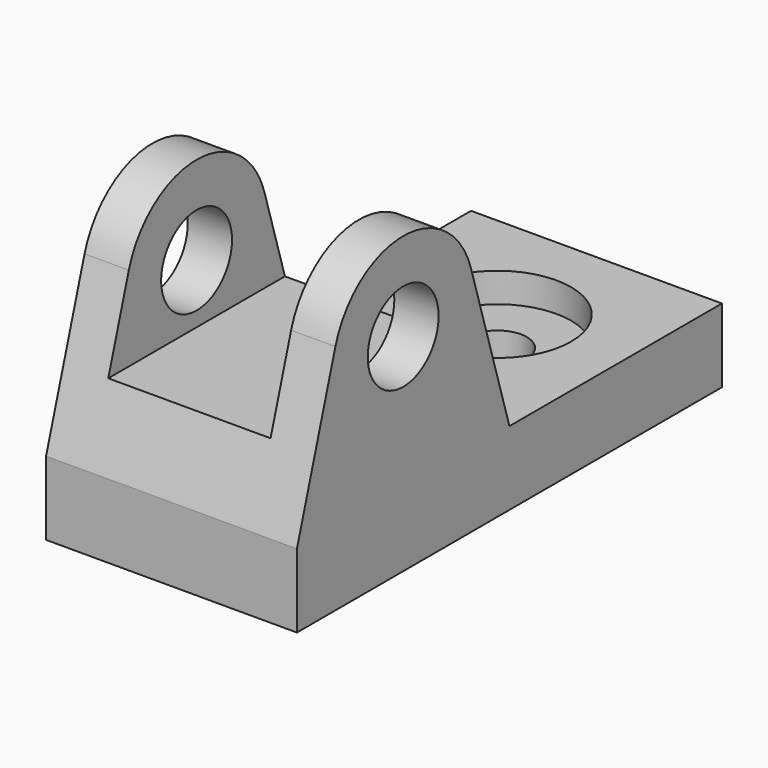
from build123d import *

# Parameters (mm, degrees)
F0_W          = 85
F0_H          = 180
F1_DEPTH      = 25
F2_R          = 15
F3_DEPTH      = 42.5
F3_DEPTH_BACK = 42.5
F4_W          = 55
F4_H          = 65
F5_DEPTH      = 180.001
F6_R          = 25
F7_DEPTH      = 10
F8_R          = 10
F9_DEPTH      = 15.001


with BuildPart() as f1:
    # F0 (on Top) → F1 (new body)
    with BuildSketch(Plane.XY):
        Rectangle(F0_W, F0_H)
    extrude(amount=F1_DEPTH)

    # F2 (on Right) → F3 (join, two sides)
    with BuildSketch(Plane.YZ) as f3_sk:
        with BuildLine():
            Line((0, 25), (-16.291713, 78.708287))
            ThreePointArc((-16.291713, 78.708287), (-45, 100), (-73.708287, 78.708287))
            Line((-73.708287, 78.708287), (-90, 25))
            Line((-90, 25), (0, 25))
        make_face()
        with Locations((-45, 70)):
            Circle(F2_R, mode=Mode.SUBTRACT)
    extrude(amount=F3_DEPTH)
    extrude(f3_sk.sketch, amount=-F3_DEPTH_BACK)

    # F4 (on face) → F5 (cut, through all)
    with BuildSketch(Plane.XZ.offset(90)):
        with Locations((0, 82.5)):
            Rectangle(F4_W, F4_H)
    extrude(amount=-F5_DEPTH, mode=Mode.SUBTRACT)

    # F6 (on face) → F7 (cut)
    with BuildSketch(Plane.XY.offset(25)):
        with Locations((0, 48)):
            Circle(F6_R)
    extrude(amount=-F7_DEPTH, mode=Mode.SUBTRACT)

    # F8 (on face) → F9 (cut, through all)
    with BuildSketch(Plane.XY.offset(15)):
        with Locations((0, 48)):
            Circle(F8_R)
    extrude(amount=-F9_DEPTH, mode=Mode.SUBTRACT)


solid = f1.part
